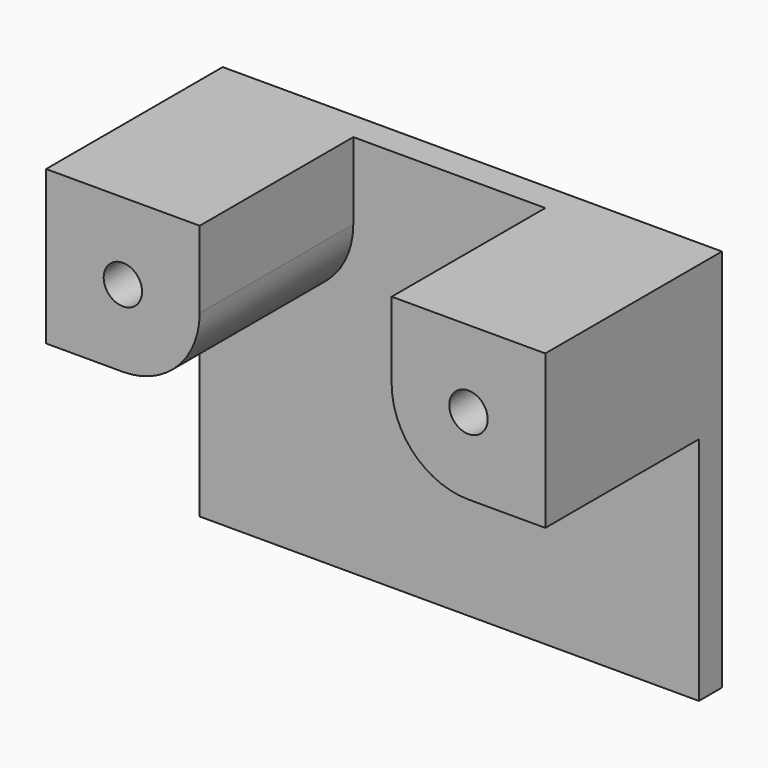
from build123d import *

# Parameters (mm, degrees)
F1_DEPTH  = 9.525
F3_DEPTH  = 63.5
F4_R      = 19.05
F5_DEPTH  = 9.526
F6_R      = 6.35
F7_DEPTH  = 31.75
F8_DEPTH  = 25.4
F9_R      = 6.35
F10_DEPTH = 25.4


with BuildPart() as f1:
    # F0 (on Front) → F1 (new body)
    with BuildSketch(Plane.XZ):
        with BuildLine():
            Line((-82.55, 12.7), (-82.55, -63.5))
            Line((-82.55, -63.5), (82.55, -63.5))
            Line((82.55, -63.5), (82.55, 0.801746))
            Line((82.55, 0.801746), (82.55, 12.7))
            Line((82.55, 12.7), (57.15, 12.7))
            ThreePointArc((57.15, 12.7), (39.189488, 20.139488), (31.75, 38.1))
            Line((31.75, 38.1), (31.75, 63.5))
            Line((31.75, 63.5), (-6.35, 63.5))
            Line((-6.35, 63.5), (-31.75, 63.5))
            Line((-31.75, 63.5), (-31.75, 38.1))
            ThreePointArc((-31.75, 38.1), (-39.189488, 20.139488), (-57.15, 12.7))
            Line((-57.15, 12.7), (-82.55, 12.7))
        make_face()
        with BuildLine():
            Line((-82.55, 20.29972), (-82.55, 12.7))
            Line((-82.55, 12.7), (-57.15, 12.7))
            ThreePointArc((-57.15, 12.7), (-39.189488, 20.139488), (-31.75, 38.1))
            Line((-31.75, 38.1), (-31.75, 63.5))
            Line((-31.75, 63.5), (-82.55, 63.5))
            Line((-82.55, 63.5), (-82.55, 20.29972))
        make_face()
        with BuildLine():
            Line((57.15, 12.7), (82.55, 12.7))
            Line((82.55, 12.7), (82.55, 63.5))
            Line((82.55, 63.5), (34.184467, 63.5))
            Line((34.184467, 63.5), (31.75, 63.5))
            Line((31.75, 63.5), (31.75, 38.1))
            ThreePointArc((31.75, 38.1), (39.189488, 20.139488), (57.15, 12.7))
        make_face()
    extrude(amount=F1_DEPTH)

    # F2 (on face) → F3 (join)
    with BuildSketch(Plane.XZ.offset(9.525)):
        with BuildLine():
            Line((-31.75, 63.5), (-82.55, 63.5))
            Line((-82.55, 63.5), (-82.55, 12.7))
            Line((-82.55, 12.7), (-57.15, 12.7))
            ThreePointArc((-57.15, 12.7), (-39.189488, 20.139488), (-31.75, 38.1))
            Line((-31.75, 38.1), (-31.75, 63.5))
        make_face()
        with BuildLine():
            Line((82.55, 12.7), (82.55, 63.5))
            Line((82.55, 63.5), (31.75, 63.5))
            Line((31.75, 63.5), (31.75, 38.1))
            ThreePointArc((31.75, 38.1), (39.189488, 20.139488), (57.15, 12.7))
            Line((57.15, 12.7), (82.55, 12.7))
        make_face()
    extrude(amount=F3_DEPTH)

    # F4 (on face) → F5 (cut, through all)
    with BuildSketch(Plane.XZ.offset(9.525)):
        Circle(F4_R)
    extrude(amount=-F5_DEPTH, mode=Mode.SUBTRACT)

    # F6 (on face) → F7 (cut)
    with BuildSketch(Plane.XZ.offset(73.025)):
        with Locations((-57.15, 38.1)):
            Circle(F6_R)
    extrude(amount=-F7_DEPTH, mode=Mode.SUBTRACT)

    # F6 (on face) → F8 (cut)
    with BuildSketch(Plane.XZ.offset(73.025)):
        with Locations((-57.15, 38.1)):
            Circle(F6_R)
    extrude(amount=-F8_DEPTH, mode=Mode.SUBTRACT)

    # F9 (on face) → F10 (cut)
    with BuildSketch(Plane.XZ.offset(73.025)):
        with Locations((57.15, 38.1)):
            Circle(F9_R)
    extrude(amount=-F10_DEPTH, mode=Mode.SUBTRACT)


solid = f1.part
